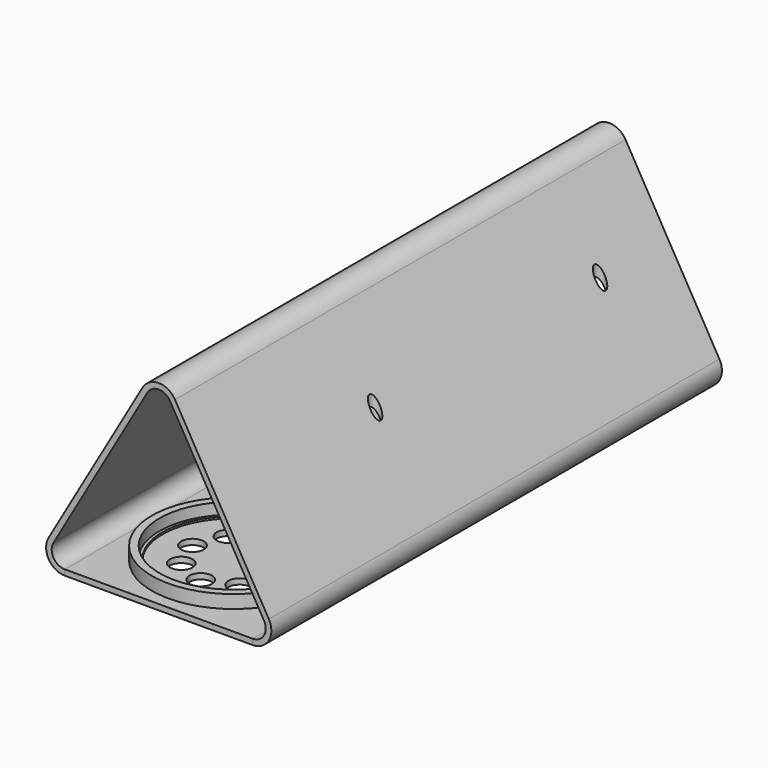
from build123d import *

# Parameters (mm, degrees)
PAD_DEPTH            = 150
SKETCH010_R          = 1.5
POCKET002_DEPTH      = 0.001
POCKET002_DEPTH_BACK = 54.30227
SKETCH003_W          = 50
SKETCH003_H          = 80
SKETCH003_W_2        = 25
SKETCH003_H_2        = 72
PAD001_DEPTH         = 1.5
SKETCH001_R          = 2
SKETCH001_R_2        = 1
PAD002_DEPTH         = 6
FILLET_R             = 2
SKETCH007_W          = 50
SKETCH007_H          = 50
PAD003_DEPTH         = 1.5
SKETCH006_R          = 21.8
SKETCH006_R_2        = 19.8
PAD004_DEPTH         = 5
SKETCH005_R          = 3
POCKET001_DEPTH      = 141.775469
POCKET001_DEPTH_BACK = 146.775469
POLARPATTERN_COUNT   = 8
SKETCH004_R          = 20
SKETCH004_R_2        = 19
PAD005_DEPTH         = 2
SKETCH011_W          = 50
SKETCH011_H          = 20
SKETCH011_R          = 3
SKETCH011_R_2        = 3.5
PAD006_DEPTH         = 1.5


with BuildPart() as housing:
    # Sketch → Pad (new body)
    with BuildSketch(Plane.XZ):
        with BuildLine():
            Line((29.330127, 7.5), (4.330127, 50.80127))
            ThreePointArc((4.330127, 50.80127), (0, 53.30127), (-4.330127, 50.80127))
            Line((-4.330127, 50.80127), (-29.330127, 7.5))
            ThreePointArc((-29.330127, 7.5), (-29.330127, 2.5), (-25, 0))
            Line((-25, 1.5), (-25, 0))
            ThreePointArc((-28.031089, 6.75), (-28.031089, 3.25), (-25, 1.5))
            Line((-3.031089, 50.05127), (-28.031089, 6.75))
            ThreePointArc((3.031089, 50.05127), (0, 51.80127), (-3.031089, 50.05127))
            Line((28.031089, 6.75), (3.031089, 50.05127))
            ThreePointArc((25, 1.5), (28.031089, 3.25), (28.031089, 6.75))
            Line((25, 1.5), (25, 0))
            ThreePointArc((25, 0), (29.330127, 2.5), (29.330127, 7.5))
        make_face()
    extrude(amount=PAD_DEPTH)

    # Sketch010 → Pocket002 (cut, two sides)
    with BuildSketch(Plane(origin=(0, -60, -1), x_dir=(1, 0, 0), z_dir=(0, 0, 1))) as pocket002_sk:
        with Locations((-15.59, 37.44)):
            Circle(SKETCH010_R)
        with Locations((-15.59, -37.44)):
            Circle(SKETCH010_R)
        with Locations((15.59, -37.44)):
            Circle(SKETCH010_R)
        with Locations((15.59, 37.44)):
            Circle(SKETCH010_R)
    extrude(amount=-POCKET002_DEPTH, mode=Mode.SUBTRACT)
    extrude(pocket002_sk.sketch, amount=POCKET002_DEPTH_BACK, mode=Mode.SUBTRACT)


with BuildPart() as lcd:
    # Sketch003 → Pad001 (new body)
    with BuildSketch(Plane.XY):
        Rectangle(SKETCH003_W, SKETCH003_H)
        Rectangle(SKETCH003_W_2, SKETCH003_H_2, mode=Mode.SUBTRACT)
    extrude(amount=PAD001_DEPTH)

    # Sketch001 → Pad002 (join)
    with BuildSketch(Plane.XY):
        with Locations((-15.59, 37.44)):
            Circle(SKETCH001_R)
        with Locations((-15.59, 37.44)):
            Circle(SKETCH001_R_2, mode=Mode.SUBTRACT)
        with Locations((-15.59, -37.44)):
            Circle(SKETCH001_R)
        with Locations((-15.59, -37.44)):
            Circle(SKETCH001_R_2, mode=Mode.SUBTRACT)
        with Locations((15.59, -37.44)):
            Circle(SKETCH001_R)
        with Locations((15.59, -37.44)):
            Circle(SKETCH001_R_2, mode=Mode.SUBTRACT)
        with Locations((15.59, 37.44)):
            Circle(SKETCH001_R)
        with Locations((15.59, 37.44)):
            Circle(SKETCH001_R_2, mode=Mode.SUBTRACT)
    extrude(amount=PAD002_DEPTH)

    # Fillet
    fillet_edges = [lcd.edges().sort_by_distance(p)[0] for p in [
        (-17.59, 37.44, 1.5),
        (13.59, 37.44, 1.5),
        (-17.59, -37.44, 1.5),
        (13.59, -37.44, 1.5),
    ]]
    fillet(fillet_edges, radius=FILLET_R)


with BuildPart() as lcd_1:
    # Body001 placement: moved
    add(lcd.part.moved(Location((0, -60, 0))))


with BuildPart() as speaker:
    # Sketch007 → Pad003 (new body)
    with BuildSketch(Plane.XY):
        Rectangle(SKETCH007_W, SKETCH007_H)
    extrude(amount=PAD003_DEPTH)

    # Sketch006 → Pad004 (join)
    with BuildSketch(Plane.XY):
        Circle(SKETCH006_R)
        Circle(SKETCH006_R_2, mode=Mode.SUBTRACT)
    extrude(amount=PAD004_DEPTH)

    # Sketch005 → Pocket001 (cut, two sides)
    with BuildSketch(Plane.XY) as pocket001_sk:
        with Locations((0, 11)):
            Circle(SKETCH005_R)
    pocket001 = extrude(amount=-POCKET001_DEPTH, mode=Mode.SUBTRACT) + extrude(pocket001_sk.sketch, amount=POCKET001_DEPTH_BACK, mode=Mode.SUBTRACT)

    # PolarPattern: Pocket001 ×8 about axis
    polarpattern_axis = Axis((0, 0, 0), (0, 0, 1))
    for i in range(1, POLARPATTERN_COUNT):
        add(pocket001.rotate(polarpattern_axis, i * 360 / POLARPATTERN_COUNT), mode=Mode.SUBTRACT)

    # Sketch004 → Pad005 (join)
    with BuildSketch(Plane.XY):
        Circle(SKETCH004_R)
        Circle(SKETCH004_R_2, mode=Mode.SUBTRACT)
    extrude(amount=PAD005_DEPTH)


with BuildPart() as speaker_1:
    # Body002 placement: moved
    add(speaker.part.moved(Location((0, -125, 0))))


with BuildPart() as button:
    # Sketch011 → Pad006 (new body)
    with BuildSketch(Plane.XY):
        Rectangle(SKETCH011_W, SKETCH011_H)
        with Locations((-12.5, 0)):
            Circle(SKETCH011_R, mode=Mode.SUBTRACT)
        with Locations((12.5, 0)):
            Circle(SKETCH011_R_2, mode=Mode.SUBTRACT)
    extrude(amount=PAD006_DEPTH)


with BuildPart() as button_1:
    # Body003 placement: moved
    add(button.part.moved(Location((0, -10, 0))))


solid = Compound([housing.part, lcd_1.part, speaker_1.part, button_1.part])
